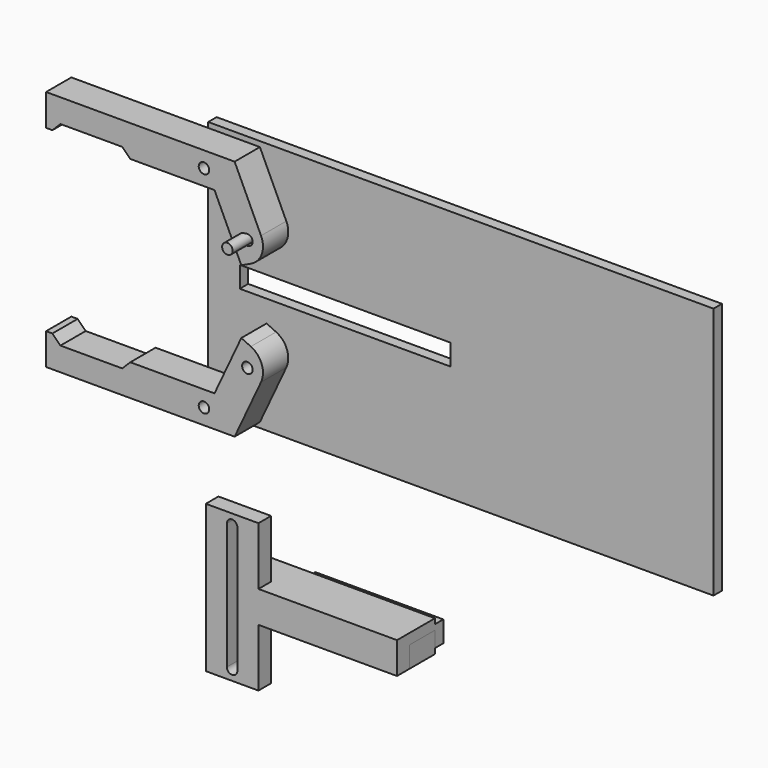
from build123d import *

# Parameters (mm, degrees)
F0_R      = 3.175
F1_DEPTH  = 19.05
F5_W      = 304.8
F5_H      = 152.4
F5_R      = 3.175
F5_W_2    = 127
F5_H_2    = 12.7
F6_DEPTH  = 6.35
F8_R      = 12.7
F8_2_R    = 12.7
F9_R      = 3.175
F10_DEPTH = 31.75
F11_W     = 12.7
F11_H     = 6.35
F11_W_2   = 96.2871945223
F12_DEPTH = 9.525
F11_W_3   = 6.35
F13_DEPTH = 19.05
F14_W     = 77.2371945223
F14_H     = 12.7
F15_DEPTH = 6.35


with BuildPart() as f1:
    # F0 (on Front) → F1 (new body)
    with BuildSketch(Plane.XZ):
        Polygon((18.4861884684, 9.525), (-95.25, 9.525), (-95.25, -9.525), (-91.44, -9.525), (-86.5903822696, -4.6753822696), (-49.2996177304, -4.6753822696), (-44.45, -9.525), (6.35, -9.525), (22.5093851571, -44.1789133007), (39.7745485002, -36.1280354145), align=None)
        with Locations((26.1826050089, -29.5180886138)):
            Circle(F0_R, mode=Mode.SUBTRACT)
        Circle(F0_R, mode=Mode.SUBTRACT)
    extrude(amount=F1_DEPTH)


with BuildPart() as f4_1:
    # F4: instance of F1
    add(f1.part.mirror(Plane.XY.offset(-63.5)))

    # F8#2
    f8_2_edges = [f4_1.edges().sort_by_distance(p)[0] for p in [
        (39.774549, -9.525, -90.871965),
    ]]
    fillet(f8_2_edges, radius=F8_2_R)


with BuildPart() as f6:
    # F5 (on Front) → F6 (new body)
    with BuildSketch(Plane.XZ):
        with Locations((139.7, -63.5)):
            Rectangle(F5_W, F5_H)
        with Locations((0, -127.0497590303)):
            Circle(F5_R, mode=Mode.SUBTRACT)
        with Locations((69.85, -63.3081676602)):
            Rectangle(F5_W_2, F5_H_2, mode=Mode.SUBTRACT)
        Circle(F5_R, mode=Mode.SUBTRACT)
    extrude(amount=-F6_DEPTH)


with BuildPart() as f1_1:
    add(f1.part)

    # F8
    f8_edges = [f1_1.edges().sort_by_distance(p)[0] for p in [
        (39.774549, -9.525, -36.128035),
    ]]
    fillet(f8_edges, radius=F8_R)


with BuildPart() as f10:
    # F9 (on face) → F10 (new body)
    with BuildSketch(Plane.XZ):
        with Locations((24.2757443339, -29.718)):
            Circle(F9_R)
    extrude(amount=F10_DEPTH)


with BuildPart() as f12:
    # F11 (on offset) → F12 (new body)
    with BuildSketch(Plane.XZ.offset(19.05)):
        with BuildLine():
            Line((21.4183922329, -225.425), (8.7183922329, -225.425))
            Line((8.7183922329, -225.425), (8.7183922329, -260.35))
            Line((8.7183922329, -260.35), (40.4683922329, -260.35))
            Line((40.4683922329, -260.35), (40.4683922329, -225.425))
            Line((40.4683922329, -225.425), (27.7683922329, -225.425))
            Line((27.7683922329, -225.425), (27.7683922329, -254))
            ThreePointArc((27.7683922329, -254), (24.5933922329, -257.175), (21.4183922329, -254))
            Line((21.4183922329, -254), (21.4183922329, -225.425))
        make_face()
        with BuildLine():
            Line((40.4683922329, -171.45), (8.7183922329, -171.45))
            Line((8.7183922329, -171.45), (8.7183922329, -206.375))
            Line((8.7183922329, -206.375), (21.4183922329, -206.375))
            Line((21.4183922329, -206.375), (21.4183922329, -177.8))
            ThreePointArc((21.4183922329, -177.8), (24.5933922329, -174.625), (27.7683922329, -177.8))
            Line((27.7683922329, -177.8), (27.7683922329, -206.375))
            Line((27.7683922329, -206.375), (40.4683922329, -206.375))
            Line((40.4683922329, -206.375), (40.4683922329, -171.45))
        make_face()
        Polygon((124.0555867553, -206.375), (40.4683922329, -206.375), (27.7683922329, -206.375), (27.7683922329, -212.725), (124.0555867553, -212.725), align=None)
        with Locations((15.0683922329, -209.55)):
            Rectangle(F11_W, F11_H)
        with Locations((15.0683922329, -222.25)):
            Rectangle(F11_W, F11_H)
        Polygon((124.0555867553, -225.425), (124.0555867553, -219.075), (27.7683922329, -219.075), (27.7683922329, -225.425), (40.4683922329, -225.425), align=None)
        with Locations((75.9119894941, -215.9)):
            Rectangle(F11_W_2, F11_H)
        with Locations((15.0683922329, -215.9)):
            Rectangle(F11_W, F11_H)
    extrude(amount=F12_DEPTH)

    # F11 (on offset) → F13 (join)
    with BuildSketch(Plane.XZ.offset(19.05)):
        Polygon((124.0555867553, -225.425), (124.0555867553, -219.075), (27.7683922329, -219.075), (27.7683922329, -225.425), (40.4683922329, -225.425), align=None)
        with Locations((75.9119894941, -215.9)):
            Rectangle(F11_W_2, F11_H)
        Polygon((124.0555867553, -206.375), (40.4683922329, -206.375), (27.7683922329, -206.375), (27.7683922329, -212.725), (124.0555867553, -212.725), align=None)
        with Locations((15.0683922329, -209.55)):
            Rectangle(F11_W, F11_H)
        with Locations((15.0683922329, -222.25)):
            Rectangle(F11_W, F11_H)
        with Locations((15.0683922329, -215.9)):
            Rectangle(F11_W, F11_H)
        with Locations((24.5933922329, -215.9)):
            Rectangle(F11_W_3, F11_H)
        with Locations((24.5933922329, -209.55)):
            Rectangle(F11_W_3, F11_H)
        with Locations((24.5933922329, -222.25)):
            Rectangle(F11_W_3, F11_H)
    extrude(amount=-F13_DEPTH)

    # F14 (on face) → F15 (join)
    with BuildSketch(Plane(origin=(0, 0, 0), x_dir=(-1, 0, 0), z_dir=(0, 1, 0))):
        with Locations((-85.4369894941, -215.9)):
            Rectangle(F14_W, F14_H)
    extrude(amount=F15_DEPTH)


solid = Compound([f4_1.part, f6.part, f1_1.part, f10.part, f12.part])
